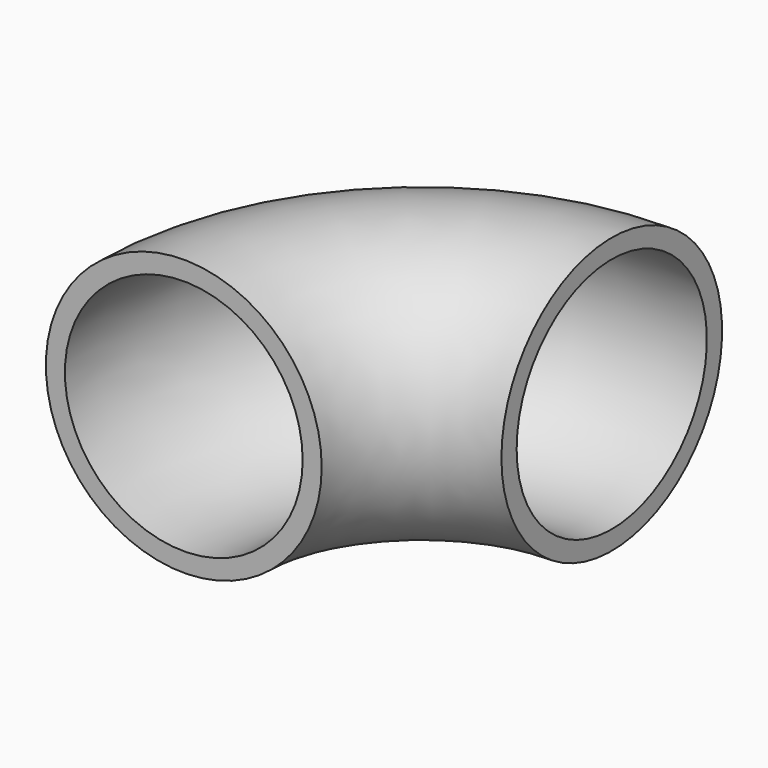
from build123d import *

# Parameters (mm, degrees)
F1_R   = 22.098
F1_R_2 = 19.05


with BuildPart() as f2:
    # F2: sweep along a path in F0
    with BuildLine(Plane.XY) as f2_path:
        ThreePointArc((0, 38.1), (-26.940768, 26.940768), (-38.1, 0))
    # F1 (on Front) → F2 (sweep)
    with BuildSketch(Plane.XZ):
        with Locations((-38.1, 0)):
            Circle(F1_R)
        with Locations((-38.1, 0)):
            Circle(F1_R_2, mode=Mode.SUBTRACT)
    sweep(path=f2_path.line)


solid = f2.part
